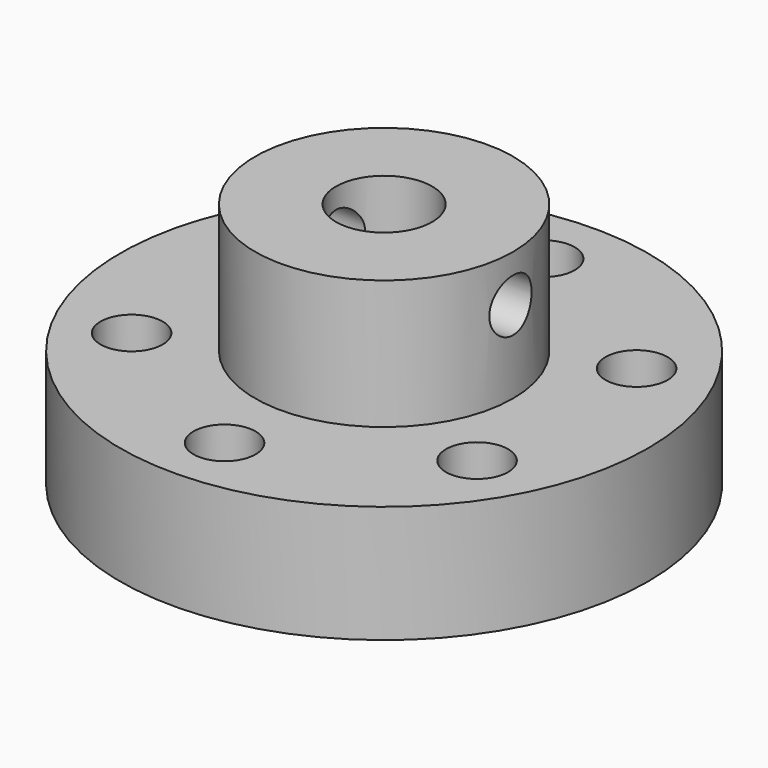
from build123d import *

# Parameters (mm, degrees)
F0_R     = 22.5
F1_DEPTH = 10
F2_R     = 11
F3_DEPTH = 11
F5_D     = 8.2
F7_D     = 5.3
F8_R     = 2.25
F9_DEPTH = 50


with BuildPart() as f1:
    # F0 (on Top) → F1 (new body)
    with BuildSketch(Plane.XY):
        Circle(F0_R)
    extrude(amount=F1_DEPTH)

    # F2 (on face) → F3 (join)
    with BuildSketch(Plane.XY.offset(10)):
        Circle(F2_R)
    extrude(amount=F3_DEPTH)

    # F5 (through all)
    with Locations(Plane.XY.offset(21)):
        with Locations((0, 0)):
            Hole(F5_D / 2)

    # F7 (through all)
    with Locations(Plane.XY.offset(10)):
        with Locations((0, 17), (14.722432, 8.5), (14.722432, -8.5), (0, -17), (-14.722432, -8.5), (-14.722432, 8.5)):
            Hole(F7_D / 2)

    # F8 (on Right) → F9 (cut, symmetric)
    with BuildSketch(Plane.YZ):
        with Locations((0, 17)):
            Circle(F8_R)
    extrude(amount=F9_DEPTH, both=True, mode=Mode.SUBTRACT)


solid = f1.part
